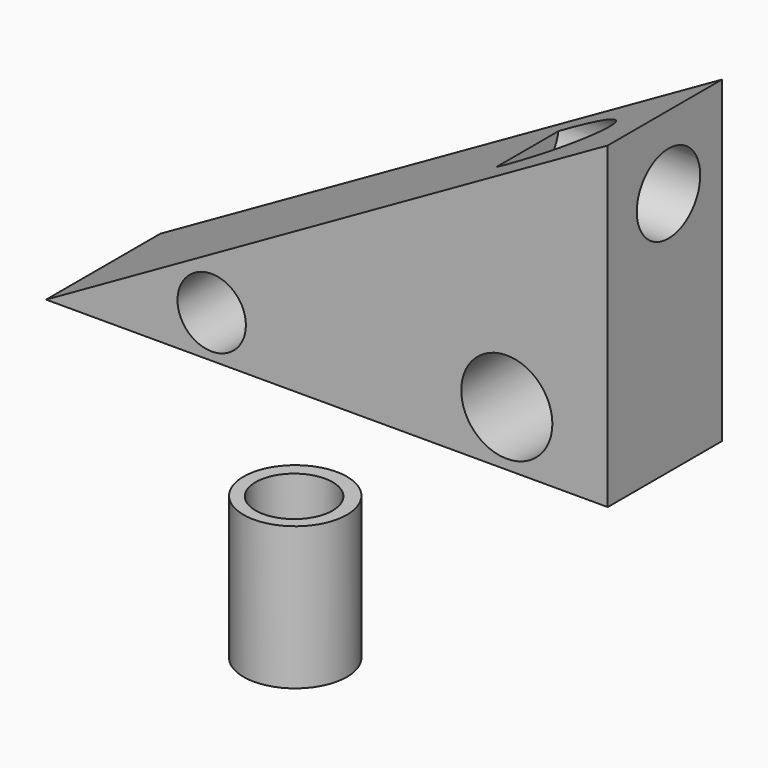
from build123d import *

# Parameters (mm, degrees)
F1_DEPTH  = 25.4
F2_R      = 8.105972
F3_DEPTH  = 50.8
F2_R_2    = 6.086756
F4_DEPTH  = 50.8
F5_R      = 7.052488
F6_DEPTH  = 25.146
F7_R      = 9.204756
F8_DEPTH  = 25.4
F9_R      = 6.852263
F10_DEPTH = 29.464


with BuildPart() as f1:
    # F0 (on Front) → F1 (new body)
    with BuildSketch(Plane.XZ):
        Polygon((36.10063, 68.610115), (-63.844816, 11.961699), (36.10063, 11.961699), align=None)
    extrude(amount=F1_DEPTH)

    # F2 (on Front) → F3 (cut)
    with BuildSketch(Plane.XZ):
        with Locations((18.142877, 21.7932)):
            Circle(F2_R)
    extrude(amount=F3_DEPTH, mode=Mode.SUBTRACT)

    # F2 (on Front) → F4 (cut)
    with BuildSketch(Plane.XZ):
        with Locations((-34.37642, 19.505117)):
            Circle(F2_R_2)
    extrude(amount=F4_DEPTH, mode=Mode.SUBTRACT)

    # F5 (on face) → F6 (cut)
    with BuildSketch(Plane.YZ.offset(36.10063)):
        with Locations((-11.881486, 55.595338)):
            Circle(F5_R)
    extrude(amount=-F6_DEPTH, mode=Mode.SUBTRACT)


with BuildPart() as f8:
    # F7 (on Top) → F8 (new body)
    with BuildSketch(Plane.XY):
        with Locations((16.176064, -70.011124)):
            Circle(F7_R)
    extrude(amount=F8_DEPTH)

    # F9 (on Top) → F10 (cut)
    with BuildSketch(Plane.XY):
        with Locations((16.176064, -70.252106)):
            Circle(F9_R)
    extrude(amount=F10_DEPTH, mode=Mode.SUBTRACT)


solid = Compound([f1.part, f8.part])
